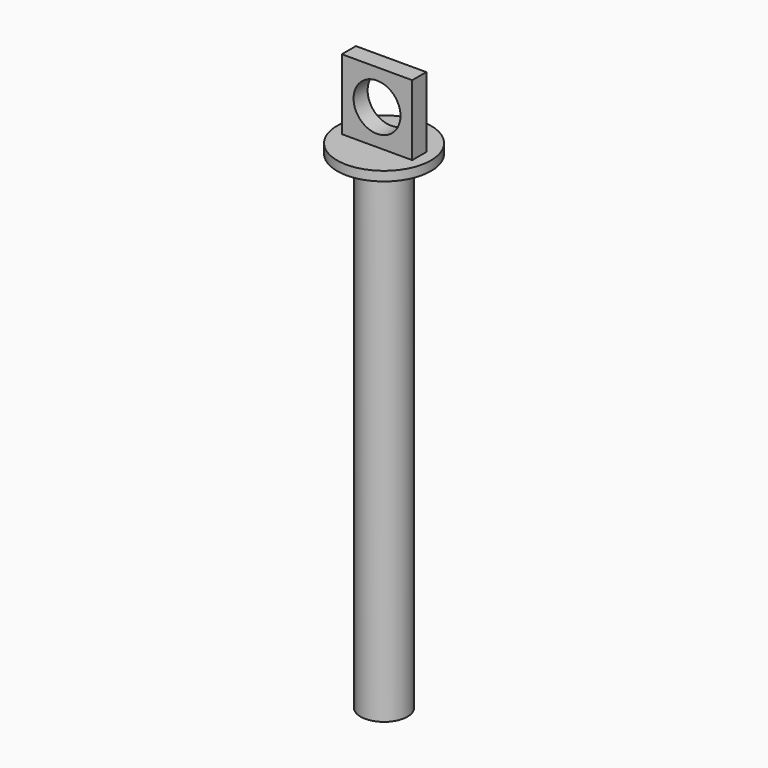
from build123d import *

# Parameters (mm, degrees)
F0_R     = 6.35
F1_DEPTH = 132.08
F2_R     = 12.7
F3_DEPTH = 2.54
F4_W     = 19.05
F4_H     = 19.05
F5_DEPTH = 2.38125
F6_R     = 6.35
F7_DEPTH = 4.7625


with BuildPart() as f1:
    # F0 (on Top) → F1 (new body)
    with BuildSketch(Plane.XY):
        Circle(F0_R)
    extrude(amount=F1_DEPTH)

    # F2 (on face) → F3 (join)
    with BuildSketch(Plane.XY.offset(132.08)):
        Circle(F2_R)
    extrude(amount=F3_DEPTH)

    # F4 (on Front) → F5 (join, symmetric)
    with BuildSketch(Plane.XZ):
        with Locations((0, 144.145)):
            Rectangle(F4_W, F4_H)
    extrude(amount=F5_DEPTH, both=True)

    # F6 (on face) → F7 (cut)
    with BuildSketch(Plane.XZ.offset(2.38125)):
        with Locations((0, 144.145)):
            Circle(F6_R)
    extrude(amount=-F7_DEPTH, mode=Mode.SUBTRACT)


solid = f1.part
